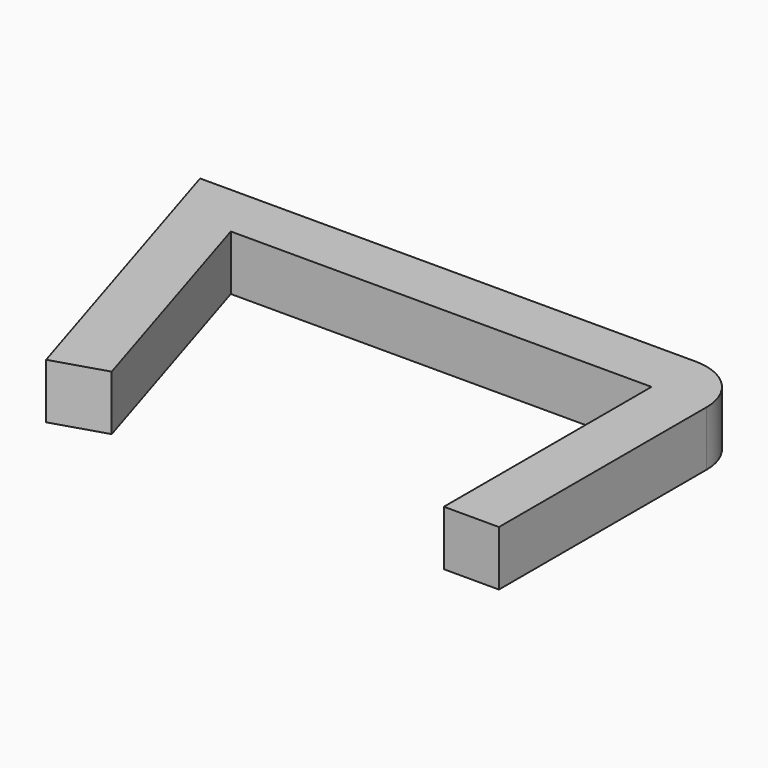
from build123d import *

# Parameters (mm, degrees)
F1_DEPTH = 7


with BuildPart() as f1:
    # F0 (on Top) → F1 (new body)
    with BuildSketch(Plane.XY):
        with BuildLine():
            Line((5.232927, 16.684125), (5.232927, -16.315875))
            Line((5.232927, -16.315875), (12.232927, -16.315875))
            Line((12.232927, -16.315875), (12.232927, 16.684125))
            ThreePointArc((12.232927, 16.684125), (10.182675, 21.633872), (5.232927, 23.684125))
            Line((5.232927, 23.684125), (-57.767073, 23.684125))
            Line((-57.767073, 23.684125), (-45.349505, -16.315875))
            Line((-45.349505, -16.315875), (-38.664234, -14.240505))
            Line((-38.664234, -14.240505), (-48.264452, 16.684125))
            Line((-48.264452, 16.684125), (5.232927, 16.684125))
        make_face()
    extrude(amount=F1_DEPTH)


solid = f1.part
